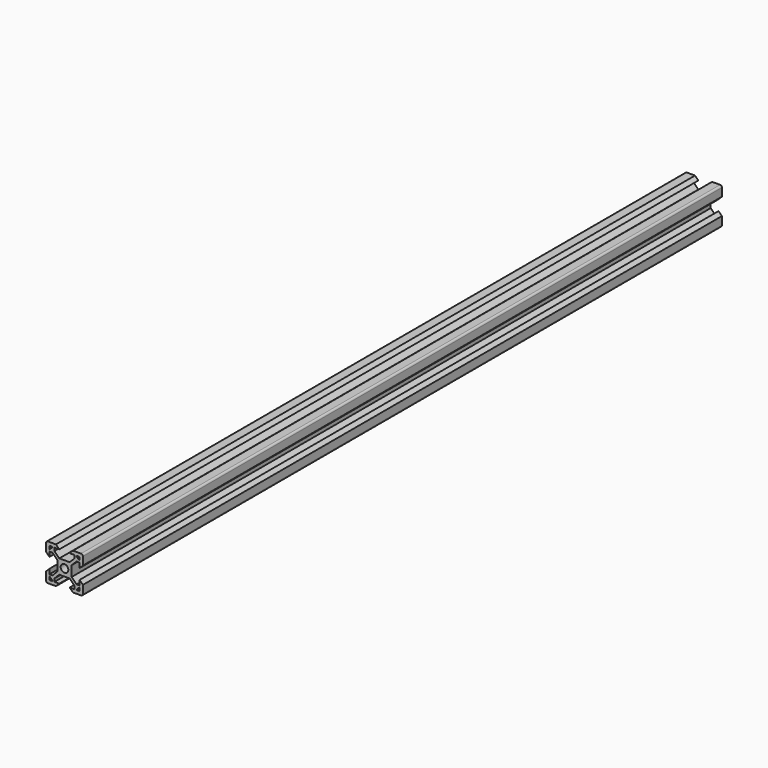
from build123d import *

# Parameters (mm, degrees)
F0_R     = 2.0955
F2_DEPTH = 434


with BuildPart() as f2:
    # F0 (on Front) → F2 (new body)
    with BuildSketch(Plane.XZ):
        with BuildLine():
            Line((-4.6246692655, 9.9949), (-9.0043, 9.9949))
            ThreePointArc((-9.0043, 9.9949), (-9.7047599774, 9.7047599774), (-9.9949, 9.0043))
            Line((-9.9949, 9.0043), (-9.9949, 4.6246692655))
            Line((-9.9949, 4.6246692655), (-8.1915, 2.8212692655))
            Line((-8.1915, 2.8212692655), (-8.1915, 5.4628692655))
            Line((-8.1915, 5.4628692655), (-6.5405, 5.4628692655))
            Line((-6.5405, 5.4628692655), (-3.8989, 2.8212692655))
            Line((-3.8989, 2.8212692655), (-3.8989, -2.8212692655))
            Line((-3.8989, -2.8212692655), (-6.5405, -5.4628692655))
            Line((-6.5405, -5.4628692655), (-8.1915, -5.4628692655))
            Line((-8.1915, -5.4628692655), (-8.1915, -2.8212692655))
            Line((-8.1915, -2.8212692655), (-9.9949, -4.6246692655))
            Line((-9.9949, -4.6246692655), (-9.9949, -9.0043))
            ThreePointArc((-9.9949, -9.0043), (-9.7047599774, -9.7047599774), (-9.0043, -9.9949))
            Line((-9.0043, -9.9949), (-4.6246692655, -9.9949))
            Line((-4.6246692655, -9.9949), (-2.8212692655, -8.1915))
            Line((-2.8212692655, -8.1915), (-5.4628692655, -8.1915))
            Line((-5.4628692655, -8.1915), (-5.4628692655, -6.5405))
            Line((-5.4628692655, -6.5405), (-2.8212692655, -3.8989))
            Line((-2.8212692655, -3.8989), (2.8212692655, -3.8989))
            Line((2.8212692655, -3.8989), (5.4628692655, -6.5405))
            Line((5.4628692655, -6.5405), (5.4628692655, -8.1915))
            Line((5.4628692655, -8.1915), (2.8212692655, -8.1915))
            Line((2.8212692655, -8.1915), (4.6246692655, -9.9949))
            Line((4.6246692655, -9.9949), (9.0043, -9.9949))
            ThreePointArc((9.0043, -9.9949), (9.7047599774, -9.7047599774), (9.9949, -9.0043))
            Line((9.9949, -9.0043), (9.9949, -4.6246692655))
            Line((9.9949, -4.6246692655), (8.1915, -2.8212692655))
            Line((8.1915, -2.8212692655), (8.1915, -5.4628692655))
            Line((8.1915, -5.4628692655), (6.5405, -5.4628692655))
            Line((6.5405, -5.4628692655), (3.8989, -2.8212692655))
            Line((3.8989, -2.8212692655), (3.8989, 2.8212692655))
            Line((3.8989, 2.8212692655), (6.5405, 5.4628692655))
            Line((6.5405, 5.4628692655), (8.1915, 5.4628692655))
            Line((8.1915, 5.4628692655), (8.1915, 2.8212692655))
            Line((8.1915, 2.8212692655), (9.9949, 4.6246692655))
            Line((9.9949, 4.6246692655), (9.9949, 9.0043))
            ThreePointArc((9.9949, 9.0043), (9.7047599774, 9.7047599774), (9.0043, 9.9949))
            Line((9.0043, 9.9949), (4.6246692655, 9.9949))
            Line((4.6246692655, 9.9949), (2.8212692655, 8.1915))
            Line((2.8212692655, 8.1915), (5.4628692655, 8.1915))
            Line((5.4628692655, 8.1915), (5.4628692655, 6.5405))
            Line((5.4628692655, 6.5405), (2.8212692655, 3.8989))
            Line((2.8212692655, 3.8989), (-2.8212692655, 3.8989))
            Line((-2.8212692655, 3.8989), (-5.4628692655, 6.5405))
            Line((-5.4628692655, 6.5405), (-5.4628692655, 8.1915))
            Line((-5.4628692655, 8.1915), (-2.8212692655, 8.1915))
            Line((-2.8212692655, 8.1915), (-4.6246692655, 9.9949))
        make_face()
        with BuildLine():
            ThreePointArc((-8.0391, -8.1915), (-8.1468630735, -8.1468630735), (-8.1915, -8.0391))
            Line((-8.1915, -8.0391), (-8.1915, -6.6929))
            ThreePointArc((-8.1915, -6.6929), (-8.1468630735, -6.5851369265), (-8.0391, -6.5405))
            Line((-8.0391, -6.5405), (-7.9883, -6.5405))
            Line((-7.9883, -6.5405), (-6.5405, -7.9883))
            Line((-6.5405, -7.9883), (-6.5405, -8.0391))
            ThreePointArc((-6.5405, -8.0391), (-6.5851369265, -8.1468630735), (-6.6929, -8.1915))
            Line((-6.6929, -8.1915), (-8.0391, -8.1915))
        make_face(mode=Mode.SUBTRACT)
        with BuildLine():
            Line((8.1915, -6.6929), (8.1915, -8.0391))
            ThreePointArc((8.1915, -8.0391), (8.1468630735, -8.1468630735), (8.0391, -8.1915))
            Line((8.0391, -8.1915), (6.6929, -8.1915))
            ThreePointArc((6.6929, -8.1915), (6.5851369265, -8.1468630735), (6.5405, -8.0391))
            Line((6.5405, -8.0391), (6.5405, -7.9883))
            Line((6.5405, -7.9883), (7.9883, -6.5405))
            Line((7.9883, -6.5405), (8.0391, -6.5405))
            ThreePointArc((8.0391, -6.5405), (8.1468630735, -6.5851369265), (8.1915, -6.6929))
        make_face(mode=Mode.SUBTRACT)
        with BuildLine():
            Line((-7.9883, 6.5405), (-8.0391, 6.5405))
            ThreePointArc((-8.0391, 6.5405), (-8.1468630735, 6.5851369265), (-8.1915, 6.6929))
            Line((-8.1915, 6.6929), (-8.1915, 8.0391))
            ThreePointArc((-8.1915, 8.0391), (-8.1468630735, 8.1468630735), (-8.0391, 8.1915))
            Line((-8.0391, 8.1915), (-6.6929, 8.1915))
            ThreePointArc((-6.6929, 8.1915), (-6.5851369265, 8.1468630735), (-6.5405, 8.0391))
            Line((-6.5405, 8.0391), (-6.5405, 7.9883))
            Line((-6.5405, 7.9883), (-7.9883, 6.5405))
        make_face(mode=Mode.SUBTRACT)
        Circle(F0_R, mode=Mode.SUBTRACT)
        with BuildLine():
            ThreePointArc((8.1915, 6.6929), (8.1468630735, 6.5851369265), (8.0391, 6.5405))
            Line((8.0391, 6.5405), (7.9883, 6.5405))
            Line((7.9883, 6.5405), (6.5405, 7.9883))
            Line((6.5405, 7.9883), (6.5405, 8.0391))
            ThreePointArc((6.5405, 8.0391), (6.5851369265, 8.1468630735), (6.6929, 8.1915))
            Line((6.6929, 8.1915), (8.0391, 8.1915))
            ThreePointArc((8.0391, 8.1915), (8.1468630735, 8.1468630735), (8.1915, 8.0391))
            Line((8.1915, 8.0391), (8.1915, 6.6929))
        make_face(mode=Mode.SUBTRACT)
    extrude(amount=F2_DEPTH)


solid = f2.part
